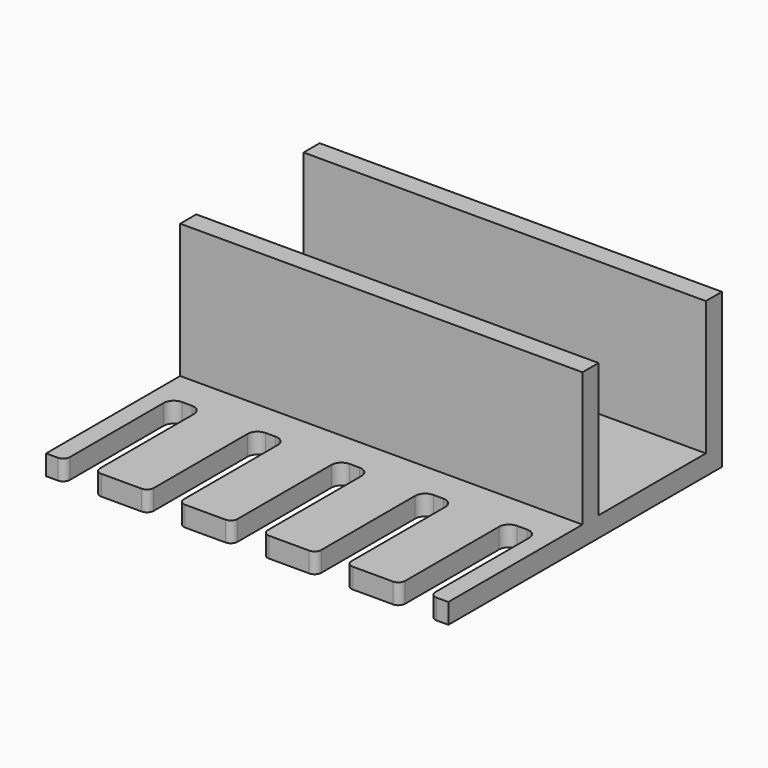
from build123d import *

# Parameters (mm, degrees)
F0_W     = 60
F0_H     = 26
F1_DEPTH = 3
F2_W     = 60
F2_H     = 3
F3_DEPTH = 20
F4_W     = 60
F4_H     = 3
F5_DEPTH = 20


with BuildPart() as f1:
    # F0 (on Top) → F1 (new body)
    with BuildSketch(Plane.XY):
        Rectangle(F0_W, F0_H)
        with BuildLine():
            Line((30, -13), (-30, -13))
            Line((-30, -13), (-30, -38))
            Line((-30, -38), (-28.25, -38))
            ThreePointArc((-28.25, -38), (-27.5428932188, -37.7071067812), (-27.25, -37))
            Line((-27.25, -37), (-27.25, -19.5))
            ThreePointArc((-27.25, -19.5), (-26.8106601718, -18.4393398282), (-25.75, -18))
            Line((-25.75, -18), (-24.25, -18))
            ThreePointArc((-24.25, -18), (-23.1893398282, -18.4393398282), (-22.75, -19.5))
            Line((-22.75, -19.5), (-22.75, -37))
            ThreePointArc((-22.75, -37), (-22.4571067812, -37.7071067812), (-21.75, -38))
            Line((-21.75, -38), (-18.75, -38))
            Line((-18.75, -38), (-15.75, -38))
            ThreePointArc((-15.75, -38), (-15.0428932188, -37.7071067812), (-14.75, -37))
            Line((-14.75, -37), (-14.75, -19.5))
            ThreePointArc((-14.75, -19.5), (-14.3106601718, -18.4393398282), (-13.25, -18))
            Line((-13.25, -18), (-11.75, -18))
            ThreePointArc((-11.75, -18), (-10.6893398282, -18.4393398282), (-10.25, -19.5))
            Line((-10.25, -19.5), (-10.25, -37))
            ThreePointArc((-10.25, -37), (-9.9571067812, -37.7071067812), (-9.25, -38))
            Line((-9.25, -38), (-3.25, -38))
            ThreePointArc((-3.25, -38), (-2.5428932188, -37.7071067812), (-2.25, -37))
            Line((-2.25, -37), (-2.25, -19.5))
            ThreePointArc((-2.25, -19.5), (-1.8106601718, -18.4393398282), (-0.75, -18))
            Line((-0.75, -18), (0.75, -18))
            ThreePointArc((0.75, -18), (1.8106601718, -18.4393398282), (2.25, -19.5))
            Line((2.25, -19.5), (2.25, -37))
            ThreePointArc((2.25, -37), (2.5428932188, -37.7071067812), (3.25, -38))
            Line((3.25, -38), (9.25, -38))
            ThreePointArc((9.25, -38), (9.9571067812, -37.7071067812), (10.25, -37))
            Line((10.25, -37), (10.25, -19.5))
            ThreePointArc((10.25, -19.5), (10.6893398282, -18.4393398282), (11.75, -18))
            Line((11.75, -18), (13.25, -18))
            ThreePointArc((13.25, -18), (14.3106601718, -18.4393398282), (14.75, -19.5))
            Line((14.75, -19.5), (14.75, -37))
            ThreePointArc((14.75, -37), (15.0428932188, -37.7071067812), (15.75, -38))
            Line((15.75, -38), (21.75, -38))
            ThreePointArc((21.75, -38), (22.4571067812, -37.7071067812), (22.75, -37))
            Line((22.75, -37), (22.75, -19.5))
            ThreePointArc((22.75, -19.5), (23.1893398282, -18.4393398282), (24.25, -18))
            Line((24.25, -18), (25.75, -18))
            ThreePointArc((25.75, -18), (26.8106601718, -18.4393398282), (27.25, -19.5))
            Line((27.25, -19.5), (27.25, -37))
            ThreePointArc((27.25, -37), (27.5428932188, -37.7071067812), (28.25, -38))
            Line((28.25, -38), (30, -38))
            Line((30, -38), (30, -13))
        make_face()
    extrude(amount=F1_DEPTH)

    # F2 (on face) → F3 (join)
    with BuildSketch(Plane.XY.offset(3)):
        with Locations((0, 11.5)):
            Rectangle(F2_W, F2_H)
    extrude(amount=F3_DEPTH)

    # F4 (on face) → F5 (join)
    with BuildSketch(Plane.XY.offset(3)):
        with Locations((0, -11.5)):
            Rectangle(F4_W, F4_H)
    extrude(amount=F5_DEPTH)


solid = f1.part
